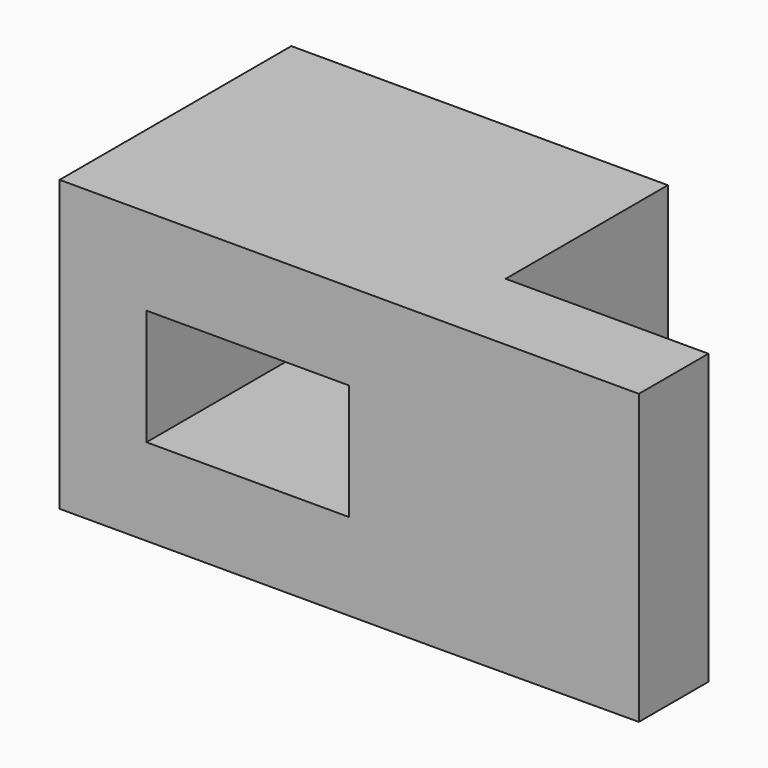
from build123d import *

# Parameters (mm, degrees)
F0_W     = 82.55
F0_H     = 63.5
F0_W_2   = 44.45
F0_H_2   = 25.4
F1_DEPTH = 19.05
F2_DEPTH = 44.45


with BuildPart() as f1:
    # F0 (on Front) → F1 (new body)
    with BuildSketch(Plane.XZ):
        with Locations((-4.347598, 31.573495)):
            Rectangle(F0_W, F0_H)
        with Locations((-4.347598, 31.573495)):
            Rectangle(F0_W_2, F0_H_2, mode=Mode.SUBTRACT)
        Polygon((81.377402, 63.323495), (36.927402, 63.323495), (36.927402, -0.176505), (81.377402, 0), align=None)
    extrude(amount=F1_DEPTH)

    # F0 (on Front) → F2 (join)
    with BuildSketch(Plane.XZ):
        with Locations((-4.347598, 31.573495)):
            Rectangle(F0_W, F0_H)
        with Locations((-4.347598, 31.573495)):
            Rectangle(F0_W_2, F0_H_2, mode=Mode.SUBTRACT)
    extrude(amount=-F2_DEPTH)


solid = f1.part
